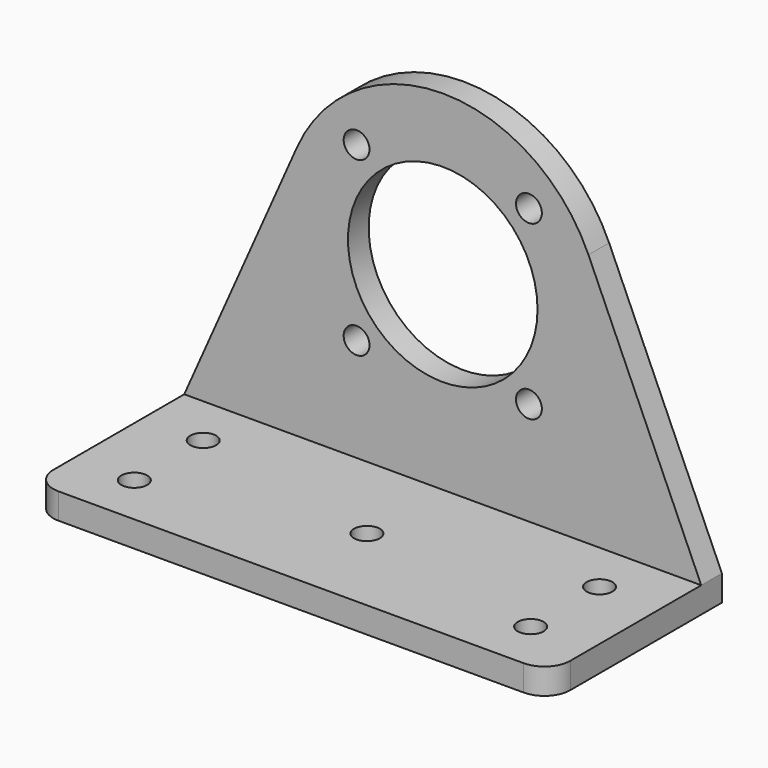
from build123d import *

# Parameters (mm, degrees)
SKETCH_R     = 1.5
SKETCH_R_2   = 11
PAD_DEPTH    = 3
SKETCH003_W  = 60
SKETCH003_H  = 3
PAD001_DEPTH = 22
SKETCH002_R  = 1.5
POCKET_DEPTH = 3
FILLET_R     = 3


with BuildPart() as part:
    # Sketch → Pad (new body)
    with BuildSketch(Plane.XZ):
        with BuildLine():
            ThreePointArc((16.910328, 32.50272), (0, 43.5), (-16.910328, 32.50272))
            Line((-30, 3), (-16.910328, 32.50272))
            Line((-30, 0), (-30, 3))
            Line((-30, 0), (30, 0))
            Line((30, 0), (30, 3))
            Line((30, 3), (16.910328, 32.50272))
        make_face()
        with Locations((10, 15)):
            Circle(SKETCH_R, mode=Mode.SUBTRACT)
        with Locations((10, 35)):
            Circle(SKETCH_R, mode=Mode.SUBTRACT)
        with Locations((-10, 35)):
            Circle(SKETCH_R, mode=Mode.SUBTRACT)
        with Locations((-10, 15)):
            Circle(SKETCH_R, mode=Mode.SUBTRACT)
        with Locations((0, 25)):
            Circle(SKETCH_R_2, mode=Mode.SUBTRACT)
    extrude(amount=PAD_DEPTH)

    # Sketch003 (on Face13 of Pad) → Pad001 (join)
    with BuildSketch(Plane.XZ.offset(3)):
        with Locations((0, 1.5)):
            Rectangle(SKETCH003_W, SKETCH003_H)
    extrude(amount=PAD001_DEPTH)

    # Sketch002 → Pocket (cut)
    with BuildSketch(Plane(origin=(0, 0, 3), x_dir=(-1, 0, 0), z_dir=(0, 0, 1))):
        with Locations((23, 19)):
            Circle(SKETCH002_R)
        with Locations((23, 9)):
            Circle(SKETCH002_R)
        with Locations((-23, 19)):
            Circle(SKETCH002_R)
        with Locations((-23, 9)):
            Circle(SKETCH002_R)
        with Locations((0, 14)):
            Circle(SKETCH002_R)
    extrude(amount=-POCKET_DEPTH, mode=Mode.SUBTRACT)

    # Fillet
    fillet_edges = [part.edges().sort_by_distance(p)[0] for p in [
        (30, -25, 1.5),
        (-30, -25, 1.5),
    ]]
    fillet(fillet_edges, radius=FILLET_R)


solid = part.part
